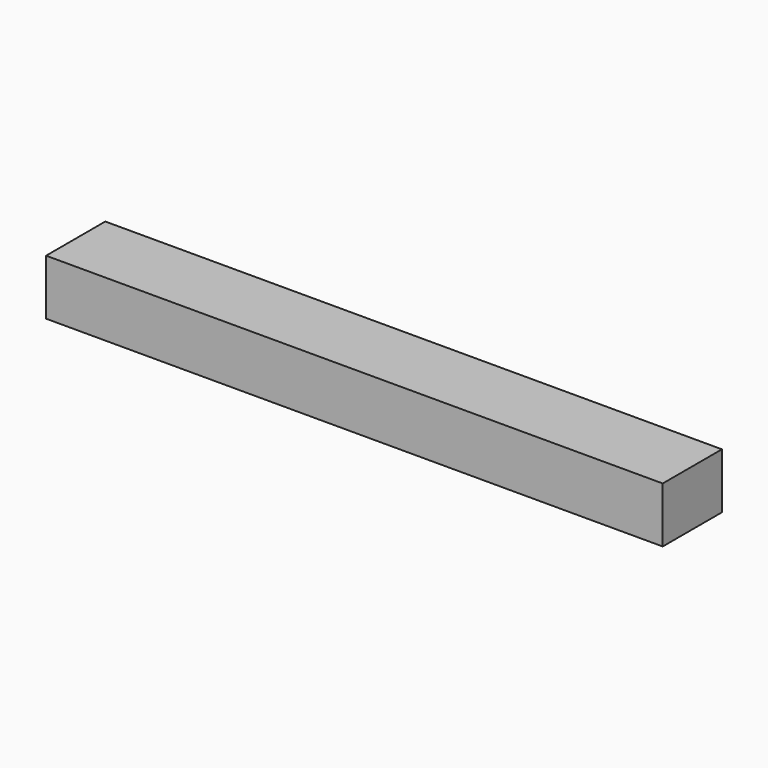
from build123d import *

# Parameters (mm, degrees)
BOX001_W     = 400
BOX001_H     = 48
BOX001_DEPTH = 36


with BuildPart() as part:
    # Box001 → Box001 (new body)
    with BuildSketch(Plane.XY):
        with Locations((200, 24)):
            Rectangle(BOX001_W, BOX001_H)
    extrude(amount=BOX001_DEPTH)


solid = part.part
